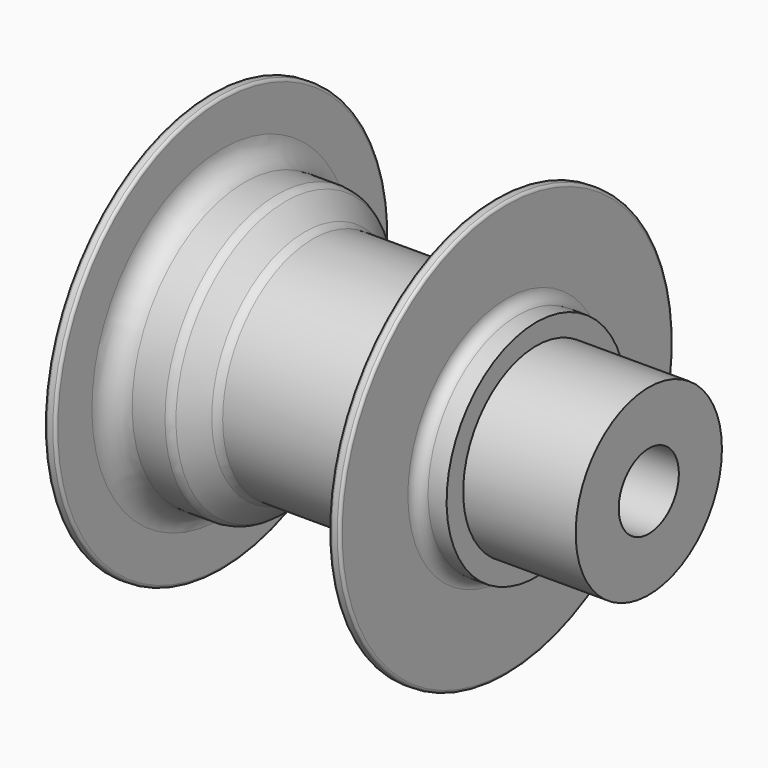
from build123d import *

# Parameters (mm, degrees)
F0_W      = 7.7864676714
F0_H      = 49.8973280191
F0_W_2    = 5.7734027505
F0_W_3    = 13.5197262597
F0_H_2    = 50.9703941643
F2_R      = 5.08
F3_R      = 10.16
F5_R      = 5.08
F6_R      = 1.27
F7_R      = 41.5422246949
F8_DEPTH  = 51.10423
F9_R      = 17.0868837878
F10_DEPTH = 229.9099700901


with BuildPart() as f1:
    # F0 (on Front) → F1 (revolve)
    with BuildSketch(Plane.XZ):
        with Locations((-59.4173595309, 24.9486640096)):
            Rectangle(F0_W, F0_H)
        with Locations((-66.1972947419, 24.9486640096)):
            Rectangle(F0_W_2, F0_H)
        Polygon((-55.5241256952, 49.8973280191), (-55.5241256952, 0), (-50.4441256952, 0), (-50.4441256952, 63.847117126), (-50.4441256952, 94.6500301361), (-55.5241256952, 94.6500301361), align=None)
        with BuildLine():
            Line((-86.5214949141, 0), (-69.0839961171, 0))
            Line((-69.0839961171, 0), (-69.0839961171, 49.8973280191))
            ThreePointArc((-69.0839961171, 49.8973280191), (-82.0365760445, 26.4282505463), (-86.5214949141, 0))
        make_face()
        Polygon((-50.4441256952, 63.847117126), (-50.4441256952, 0), (73.6835189164, 0), (73.6835189164, 51.3280779123), (-11.3736000229, 51.3280779123), (-23.1772712749, 63.847117126), align=None)
        Polygon((73.6835189164, 51.3280779123), (73.6835189164, 0), (78.7635189164, 0), (78.7635189164, 50.9703941643), (78.7635189164, 94.6500301361), (73.6835189164, 94.6500301361), align=None)
        with Locations((85.5233820462, 25.4851970822)):
            Rectangle(F0_W_3, F0_H_2)
    revolve(axis=Axis((1.4307498932, 0, 0), (1, 0, 0)))

    # F2
    f2_edges = [f1.edges().sort_by_distance(p)[0] for p in [
        (-11.3736, 0, -51.328078),
        (-23.177271, 0, -63.847117),
    ]]
    fillet(f2_edges, radius=F2_R)

    # F3
    f3_edges = [f1.edges().sort_by_distance(p)[0] for p in [
        (-50.444126, 0, -63.847117),
        (73.683519, 0, -51.328078),
    ]]
    fillet(f3_edges, radius=F3_R)

    # F5
    f5_edges = [f1.edges().sort_by_distance(p)[0] for p in [
        (-55.524126, 0, -49.897328),
        (78.763519, 0, -50.970394),
    ]]
    fillet(f5_edges, radius=F5_R)

    # F6
    f6_edges = [f1.edges().sort_by_distance(p)[0] for p in [
        (-50.444126, 0, -94.65003),
        (-55.524126, 0, -94.65003),
        (78.763519, 0, -94.65003),
        (73.683519, 0, -94.65003),
    ]]
    fillet(f6_edges, radius=F6_R)

    # F7 (on face) → F8 (join)
    with BuildSketch(Plane.YZ.offset(92.2832451761)):
        Circle(F7_R)
    extrude(amount=F8_DEPTH)

    # F9 (on face) → F10 (cut, through all)
    with BuildSketch(Plane.YZ.offset(143.3874751761)):
        Circle(F9_R)
    extrude(amount=-F10_DEPTH, mode=Mode.SUBTRACT)


solid = f1.part
